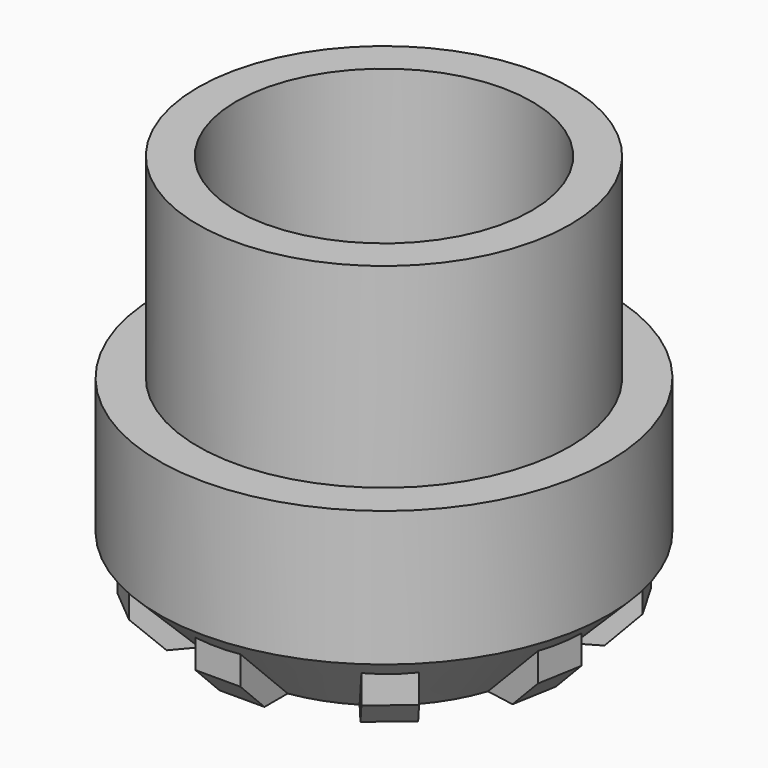
from build123d import *

# Parameters (mm, degrees)
F2_R      = 31.4610783887
F2_R_2    = 24.995840748
F3_DEPTH  = 33.02
F4_R      = 38.1
F4_R_2    = 31.4610783887
F4_R_3    = 24.995840748
F5_DEPTH  = 35.56
F6_SIZE   = 12.7
F8_W      = 7.62
F8_H      = 11.43
F9_DEPTH  = 15.7618920784
F10_SIZE  = 5.08
F11_R     = 3.175
F12_DEPTH = 5.08
F13_R     = 3.175
F14_DEPTH = 5.08


with BuildPart() as f3:
    # F2 (on offset) → F3 (new body)
    with BuildSketch(Plane.XY.offset(-98.8788958639)):
        Circle(F2_R)
        Circle(F2_R_2, mode=Mode.SUBTRACT)
    extrude(amount=-F3_DEPTH)

    # F4 (on face) → F5 (join)
    with BuildSketch(Plane(origin=(0, 0, -131.8988958639), x_dir=(1, 0, 0), z_dir=(0, 0, -1))):
        Circle(F4_R)
        Circle(F4_R_2, mode=Mode.SUBTRACT)
        Circle(F4_R_2)
        Circle(F4_R_3, mode=Mode.SUBTRACT)
        Circle(F4_R_3)
    extrude(amount=F5_DEPTH)

    # F6
    f6_edges = [f3.edges().sort_by_distance(p)[0] for p in [
        (-38.1, 0, -167.458896),
    ]]
    chamfer(f6_edges, length=F6_SIZE)

    # F8 (on face) → F9 (join)
    with BuildSketch(Plane(origin=(0, 0, -167.4588958639), x_dir=(1, 0, 0), z_dir=(0, 0, -1))):
        with Locations((0, 29.3979875922)):
            Rectangle(F8_W, F8_H)
        Polygon((-12.3045016564, 20.5912418344), (-19.6515640351, 29.3471298192), (-25.4888226916, 24.4490882334), (-18.1417603129, 15.6932002486), align=None)
        Polygon((-22.6615902384, 7.8646251761), (-33.9179428553, 9.8494238468), (-35.2411419691, 2.3451887689), (-23.9847893522, 0.3603900981), align=None)
        Polygon((-22.4150688924, -8.5419370077), (-32.3137392576, -14.2569370077), (-28.5037392576, -20.8560505845), (-18.6050688924, -15.1410505845), align=None)
        Polygon((-11.6802876959, -20.9516319325), (-15.5895779341, -31.6923185881), (-8.4291201637, -34.2985120802), (-4.5198299255, -23.5578254246), align=None)
        Polygon((4.5198299255, -23.5578254246), (8.4291201637, -34.2985120802), (15.5895779341, -31.6923185881), (11.6802876959, -20.9516319325), align=None)
        Polygon((18.6050688924, -15.1410505845), (28.5037392576, -20.8560505845), (32.3137392576, -14.2569370077), (22.4150688924, -8.5419370077), align=None)
        Polygon((23.9847893522, 0.3603900981), (35.2411419691, 2.3451887689), (33.9179428553, 9.8494238468), (22.6615902384, 7.8646251761), align=None)
        Polygon((18.1417603129, 15.6932002486), (25.4888226916, 24.4490882334), (19.6515640351, 29.3471298192), (12.3045016564, 20.5912418344), align=None)
    extrude(amount=-F9_DEPTH)

    # F10
    f10_edges = [f3.edges().sort_by_distance(p)[0] for p in [
        (-34.579542, -6.097306, -167.458896),
        (-22.570193, -26.898109, -167.458896),
        (0, -35.112988, -167.458896),
        (22.570193, -26.898109, -167.458896),
        (34.579542, -6.097306, -167.458896),
        (30.408739, 17.556494, -167.458896),
        (12.009349, 32.995415, -167.458896),
        (-12.009349, 32.995415, -167.458896),
        (-30.408739, 17.556494, -167.458896),
    ]]
    chamfer(f10_edges, length=F10_SIZE)

    # F11 (on Right) → F12 (join)
    with BuildSketch(Plane.YZ):
        with BuildLine():
            Line((-5.6298612599, -163.2592975991), (-5.6298612599, -171.5561002624))
            ThreePointArc((-5.6298612599, -171.5561002624), (0.0380569816, -178.2537691491), (5.6162731016, -171.4812090256))
            Line((5.6162731016, -171.4812090256), (5.6162731016, -163.2592975991))
            Line((5.6162731016, -163.2592975991), (-5.6298612599, -163.2592975991))
        make_face()
        with Locations((0, -172.5388958639)):
            Circle(F11_R, mode=Mode.SUBTRACT)
    extrude(amount=F12_DEPTH)

    # F13 (on face) → F14 (join)
    with BuildSketch(Plane.YZ):
        with BuildLine():
            Line((-5.6212010458, -163.5551446258), (-5.6212010458, -171.4558557956))
            ThreePointArc((-5.6212010458, -171.4558557956), (-5.6255780847, -171.4788259602), (-5.6298612599, -171.5018138123))
            Line((-5.6298612599, -171.5018138123), (-5.6298612599, -171.5561002624))
            ThreePointArc((-5.6298612599, -171.5561002624), (0.0380569816, -178.2537691491), (5.6162731016, -171.4812090256))
            Line((5.6162731016, -171.4812090256), (5.6162731016, -163.5551446258))
            Line((5.6162731016, -163.5551446258), (-5.6212010458, -163.5551446258))
        make_face()
        with Locations((0, -172.5388958639)):
            Circle(F13_R, mode=Mode.SUBTRACT)
    extrude(amount=-F14_DEPTH)


solid = f3.part
